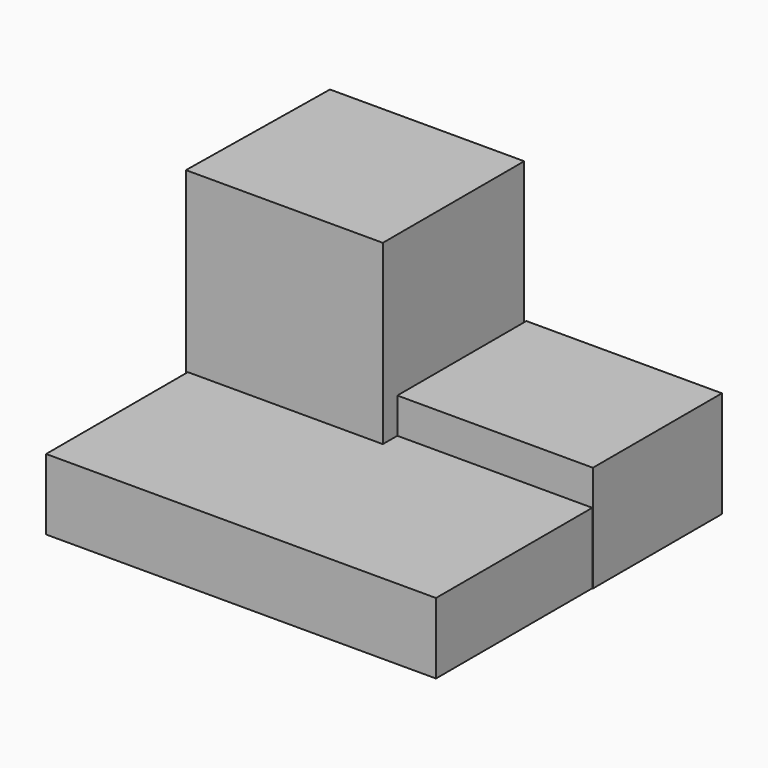
from build123d import *

# Parameters (mm, degrees)
F0_W     = 55
F0_H     = 50
F1_DEPTH = 10
F3_DEPTH = 35
F4_W     = 27.586387
F4_H     = 22.751658
F5_DEPTH = 15


with BuildPart() as f1:
    # F0 (on Top) → F1 (new body)
    with BuildSketch(Plane.XY):
        Rectangle(F0_W, F0_H)
    extrude(amount=F1_DEPTH)

    # F2 (on Top) → F3 (join)
    with BuildSketch(Plane.XY):
        Polygon((-27.396789, 24.932027), (-27.775984, 0), (0, 0), (0, 24.932027), align=None)
    extrude(amount=F3_DEPTH)

    # F4 (on Top) → F5 (join)
    with BuildSketch(Plane.XY):
        with Locations((13.793193, 13.935391)):
            Rectangle(F4_W, F4_H)
    extrude(amount=F5_DEPTH)


solid = f1.part
